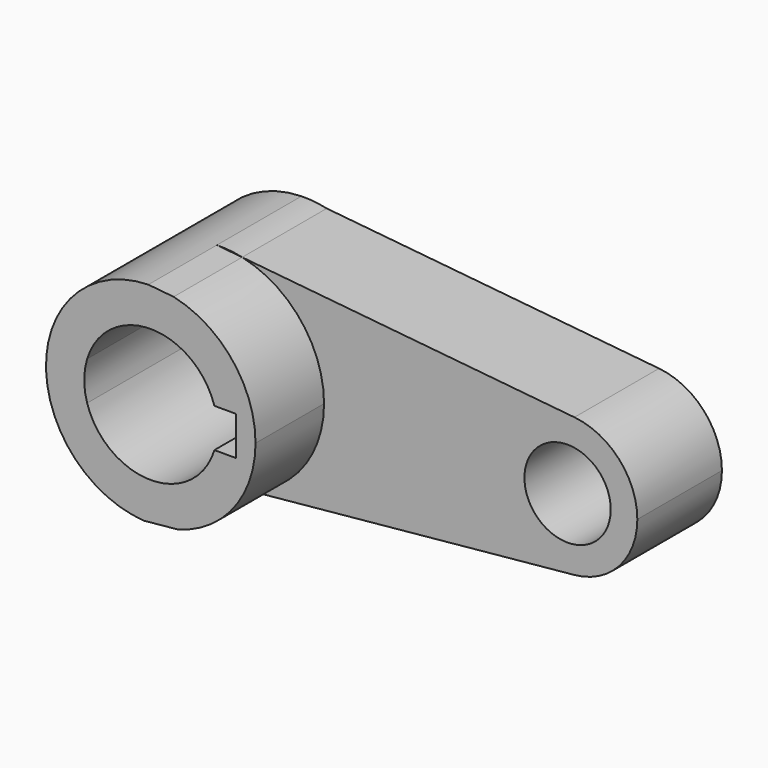
from build123d import *

# Parameters (mm, degrees)
F0_R     = 10.367684
F1_DEPTH = 25.4
F2_DEPTH = 45.974


with BuildPart() as f1:
    # F0 (on Front) → F1 (new body)
    with BuildSketch(Plane.XZ):
        with BuildLine():
            Line((-35.898636, 24.557869), (-41.97927, 25.158544))
            ThreePointArc((-41.97927, 25.158544), (-66.554008, 0.545011), (-43.068193, -25.109624))
            Line((-43.068193, -25.109624), (-34.926978, -24.320042))
            ThreePointArc((-34.926978, -24.320042), (-21.443966, -15.338432), (-16.229235, 0))
            ThreePointArc((-16.229235, 0), (-21.752764, 15.731928), (-35.898636, 24.557869))
        make_face()
        with BuildLine():
            ThreePointArc((-56.674072, 4.680658), (-41.394573, 15.980353), (-26.115073, 4.680658))
            Line((-26.115073, 4.680658), (-20.916691, 4.680658))
            Line((-20.916691, 4.680658), (-20.916691, -4.671074))
            Line((-20.916691, -4.671074), (-26.112141, -4.671074))
            ThreePointArc((-26.112141, -4.671074), (-41.394573, -15.980353), (-56.677005, -4.671074))
            ThreePointArc((-56.677005, -4.671074), (-57.374925, 0), (-56.677005, 4.671074))
            Line((-56.677005, 4.671074), (-56.677005, 4.680658))
            Line((-56.677005, 4.680658), (-56.674072, 4.680658))
        make_face(mode=Mode.SUBTRACT)
        with BuildLine():
            ThreePointArc((-35.898636, 24.557869), (-38.920654, 25.043441), (-41.97927, 25.158544))
            Line((-41.97927, 25.158544), (-35.898636, 24.557869))
        make_face()
        with BuildLine():
            Line((-34.926978, -24.320042), (-43.068193, -25.109624))
            ThreePointArc((-43.068193, -25.109624), (-38.965291, -25.047811), (-34.926978, -24.320042))
        make_face()
        with BuildLine():
            Line((43.919244, 16.673053), (-35.898636, 24.557869))
            ThreePointArc((-35.898636, 24.557869), (-21.752764, 15.731928), (-16.229235, 0))
            ThreePointArc((-16.229235, 0), (-21.443966, -15.338432), (-34.926978, -24.320042))
            Line((-34.926978, -24.320042), (43.889526, -16.675962))
            ThreePointArc((43.889526, -16.675962), (25.517994, 0.01493), (43.919244, 16.673053))
        make_face()
        with BuildLine():
            ThreePointArc((59.026403, 0), (54.68788, 11.249633), (43.919244, 16.673053))
            ThreePointArc((43.919244, 16.673053), (25.517994, 0.01493), (43.889526, -16.675962))
            ThreePointArc((43.889526, -16.675962), (54.677851, -11.260692), (59.026403, 0))
        make_face()
        with Locations((42.272195, 0)):
            Circle(F0_R, mode=Mode.SUBTRACT)
    extrude(amount=F1_DEPTH)

    # F0 (on Front) → F2 (join)
    with BuildSketch(Plane.XZ):
        with BuildLine():
            Line((-35.898636, 24.557869), (-41.97927, 25.158544))
            ThreePointArc((-41.97927, 25.158544), (-66.554008, 0.545011), (-43.068193, -25.109624))
            Line((-43.068193, -25.109624), (-34.926978, -24.320042))
            ThreePointArc((-34.926978, -24.320042), (-21.443966, -15.338432), (-16.229235, 0))
            ThreePointArc((-16.229235, 0), (-21.752764, 15.731928), (-35.898636, 24.557869))
        make_face()
        with BuildLine():
            ThreePointArc((-56.674072, 4.680658), (-41.394573, 15.980353), (-26.115073, 4.680658))
            Line((-26.115073, 4.680658), (-20.916691, 4.680658))
            Line((-20.916691, 4.680658), (-20.916691, -4.671074))
            Line((-20.916691, -4.671074), (-26.112141, -4.671074))
            ThreePointArc((-26.112141, -4.671074), (-41.394573, -15.980353), (-56.677005, -4.671074))
            ThreePointArc((-56.677005, -4.671074), (-57.374925, 0), (-56.677005, 4.671074))
            Line((-56.677005, 4.671074), (-56.677005, 4.680658))
            Line((-56.677005, 4.680658), (-56.674072, 4.680658))
        make_face(mode=Mode.SUBTRACT)
    extrude(amount=F2_DEPTH)


solid = f1.part
